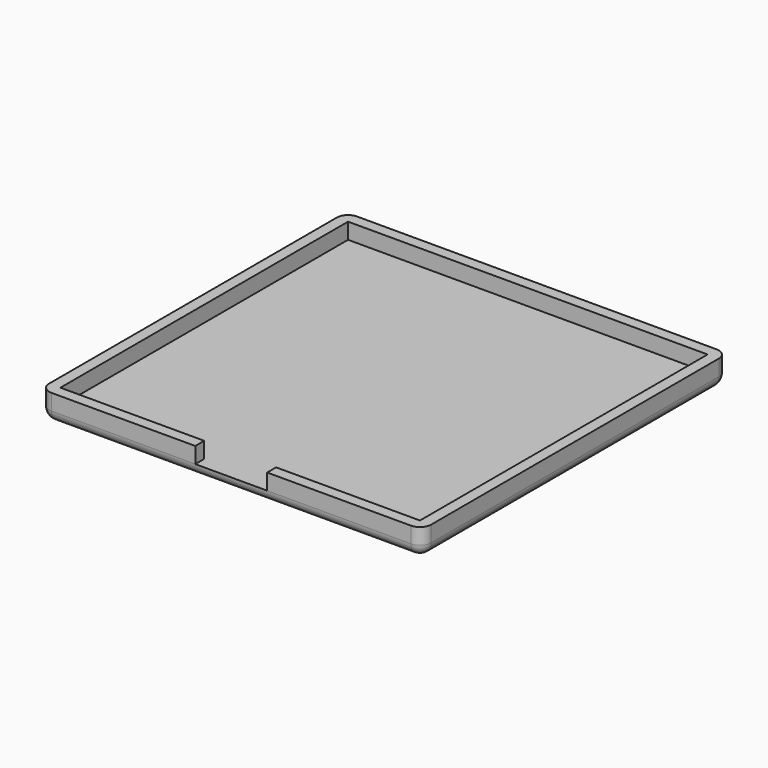
from build123d import *

# Parameters (mm, degrees)
SKETCH_W     = 45
SKETCH_H     = 45
PAD_DEPTH    = 2
THICKNESS_T  = 1.4
SKETCH001_W  = 9
SKETCH001_H  = 1.4
POCKET_DEPTH = 2


with BuildPart() as part:
    # Sketch → Pad (new body)
    with BuildSketch(Plane.XY):
        with Locations((22.5, 22.5)):
            Rectangle(SKETCH_W, SKETCH_H)
    extrude(amount=PAD_DEPTH)

    # Thickness
    thickness_openings = [part.faces().sort_by_distance(p)[0] for p in [
        (22.5, 22.5, 2),
    ]]
    offset(amount=THICKNESS_T, openings=thickness_openings)

    # Sketch001 → Pocket (cut)
    with BuildSketch(Plane.XY.offset(2)):
        with Locations((22.5, -0.7)):
            Rectangle(SKETCH001_W, SKETCH001_H)
    extrude(amount=-POCKET_DEPTH, mode=Mode.SUBTRACT)


solid = part.part
